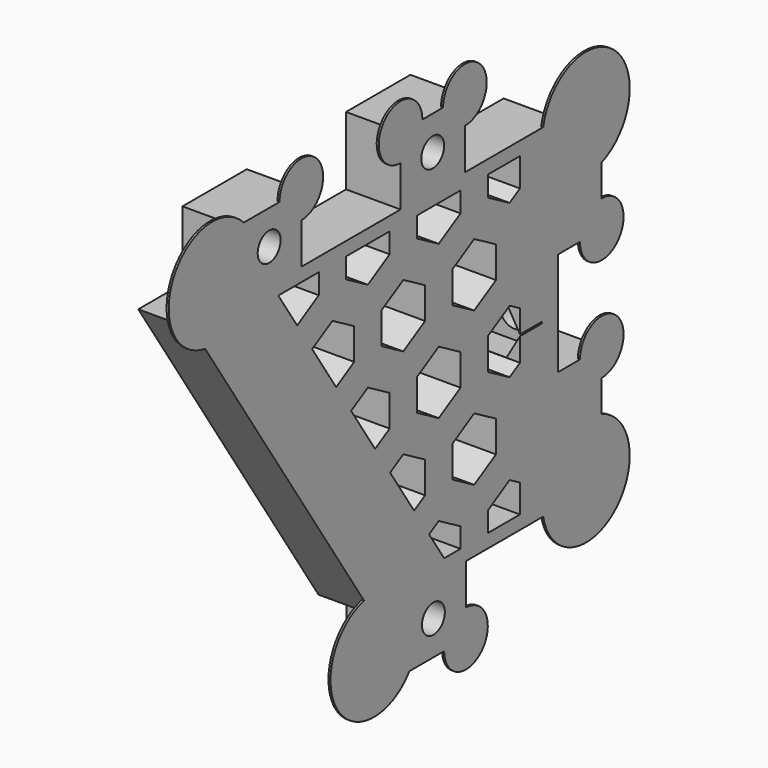
from build123d import *

# Parameters (mm, degrees)
HONEYCOMB_W      = 109
HONEYCOMB_H      = 99.592922
EXTRUDE002_DEPTH = 8
PAD002_DEPTH     = 8
PAD001_DEPTH     = 5.1
PAD_DEPTH        = 8
SKETCH001_W      = 8.1
SKETCH001_H      = 10
SKETCH001_W_2    = 18.2
SKETCH001_W_3    = 5.1
SKETCH001_W_4    = 8
SKETCH001_H_2    = 15.2
POCKET_DEPTH     = 8.001
SKETCH002_R      = 2.1
POCKET001_DEPTH  = 8.001
SKETCH004_R      = 2.1
POCKET002_DEPTH  = 7
SKETCH006_R      = 8
SKETCH006_R_2    = 4
PAD003_DEPTH     = 0.3


with BuildPart() as extrude002:
    # Honeycomb → Extrude002 (new body)
    with BuildSketch(Plane(origin=(0, 0, -0.165735), x_dir=(0, -1, 0), z_dir=(1, 0, 0))):
        with Locations((0, -0.165735)):
            Rectangle(HONEYCOMB_W, HONEYCOMB_H)
        Polygon((41.5, -37.26049), (45.5, -34.951089), (49.5, -37.26049), (49.5, -41.879292), (45.5, -44.188693), (41.5, -41.879292), align=None, mode=Mode.SUBTRACT)
        Polygon((28.5, -37.26049), (32.5, -34.951089), (36.5, -37.26049), (36.5, -41.879292), (32.5, -44.188693), (28.5, -41.879292), align=None, mode=Mode.SUBTRACT)
        Polygon((15.5, -37.26049), (19.5, -34.951089), (23.5, -37.26049), (23.5, -41.879292), (19.5, -44.188693), (15.5, -41.879292), align=None, mode=Mode.SUBTRACT)
        Polygon((2.5, -37.26049), (6.5, -34.951089), (10.5, -37.26049), (10.5, -41.879292), (6.5, -44.188693), (2.5, -41.879292), align=None, mode=Mode.SUBTRACT)
        Polygon((-10.5, -37.26049), (-6.5, -34.951089), (-2.5, -37.26049), (-2.5, -41.879292), (-6.5, -44.188693), (-10.5, -41.879292), align=None, mode=Mode.SUBTRACT)
        Polygon((-23.5, -37.26049), (-19.5, -34.951089), (-15.5, -37.26049), (-15.5, -41.879292), (-19.5, -44.188693), (-23.5, -41.879292), align=None, mode=Mode.SUBTRACT)
        Polygon((-36.5, -37.26049), (-32.5, -34.951089), (-28.5, -37.26049), (-28.5, -41.879292), (-32.5, -44.188693), (-36.5, -41.879292), align=None, mode=Mode.SUBTRACT)
        Polygon((-49.5, -37.26049), (-45.5, -34.951089), (-41.5, -37.26049), (-41.5, -41.879292), (-45.5, -44.188693), (-49.5, -41.879292), align=None, mode=Mode.SUBTRACT)
        Polygon((35, -26.00216), (39, -23.692759), (43, -26.00216), (43, -30.620962), (39, -32.930363), (35, -30.620962), align=None, mode=Mode.SUBTRACT)
        Polygon((22, -26.00216), (26, -23.692759), (30, -26.00216), (30, -30.620962), (26, -32.930363), (22, -30.620962), align=None, mode=Mode.SUBTRACT)
        Polygon((9, -26.00216), (13, -23.692759), (17, -26.00216), (17, -30.620962), (13, -32.930363), (9, -30.620962), align=None, mode=Mode.SUBTRACT)
        Polygon((-4, -26.00216), (0, -23.692759), (4, -26.00216), (4, -30.620962), (0, -32.930363), (-4, -30.620962), align=None, mode=Mode.SUBTRACT)
        Polygon((-17, -26.00216), (-13, -23.692759), (-9, -26.00216), (-9, -30.620962), (-13, -32.930363), (-17, -30.620962), align=None, mode=Mode.SUBTRACT)
        Polygon((-30, -26.00216), (-26, -23.692759), (-22, -26.00216), (-22, -30.620962), (-26, -32.930363), (-30, -30.620962), align=None, mode=Mode.SUBTRACT)
        Polygon((-43, -26.00216), (-39, -23.692759), (-35, -26.00216), (-35, -30.620962), (-39, -32.930363), (-43, -30.620962), align=None, mode=Mode.SUBTRACT)
        Polygon((41.5, -14.743829), (45.5, -12.434428), (49.5, -14.743829), (49.5, -19.362632), (45.5, -21.672033), (41.5, -19.362632), align=None, mode=Mode.SUBTRACT)
        Polygon((28.5, -14.743829), (32.5, -12.434428), (36.5, -14.743829), (36.5, -19.362632), (32.5, -21.672033), (28.5, -19.362632), align=None, mode=Mode.SUBTRACT)
        Polygon((15.5, -14.743829), (19.5, -12.434428), (23.5, -14.743829), (23.5, -19.362632), (19.5, -21.672033), (15.5, -19.362632), align=None, mode=Mode.SUBTRACT)
        Polygon((2.5, -14.743829), (6.5, -12.434428), (10.5, -14.743829), (10.5, -19.362632), (6.5, -21.672033), (2.5, -19.362632), align=None, mode=Mode.SUBTRACT)
        Polygon((-10.5, -14.743829), (-6.5, -12.434428), (-2.5, -14.743829), (-2.5, -19.362632), (-6.5, -21.672033), (-10.5, -19.362632), align=None, mode=Mode.SUBTRACT)
        Polygon((-23.5, -14.743829), (-19.5, -12.434428), (-15.5, -14.743829), (-15.5, -19.362632), (-19.5, -21.672033), (-23.5, -19.362632), align=None, mode=Mode.SUBTRACT)
        Polygon((-36.5, -14.743829), (-32.5, -12.434428), (-28.5, -14.743829), (-28.5, -19.362632), (-32.5, -21.672033), (-36.5, -19.362632), align=None, mode=Mode.SUBTRACT)
        Polygon((-49.5, -14.743829), (-45.5, -12.434428), (-41.5, -14.743829), (-41.5, -19.362632), (-45.5, -21.672033), (-49.5, -19.362632), align=None, mode=Mode.SUBTRACT)
        Polygon((35, -3.485499), (39, -1.176098), (43, -3.485499), (43, -8.104301), (39, -10.413702), (35, -8.104301), align=None, mode=Mode.SUBTRACT)
        Polygon((22, -3.485499), (26, -1.176098), (30, -3.485499), (30, -8.104301), (26, -10.413702), (22, -8.104301), align=None, mode=Mode.SUBTRACT)
        Polygon((9, -3.485499), (13, -1.176098), (17, -3.485499), (17, -8.104301), (13, -10.413702), (9, -8.104301), align=None, mode=Mode.SUBTRACT)
        Polygon((-4, -3.485499), (0, -1.176098), (4, -3.485499), (4, -8.104301), (0, -10.413702), (-4, -8.104301), align=None, mode=Mode.SUBTRACT)
        Polygon((-17, -3.485499), (-13, -1.176098), (-9, -3.485499), (-9, -8.104301), (-13, -10.413702), (-17, -8.104301), align=None, mode=Mode.SUBTRACT)
        Polygon((-30, -3.485499), (-26, -1.176098), (-22, -3.485499), (-22, -8.104301), (-26, -10.413702), (-30, -8.104301), align=None, mode=Mode.SUBTRACT)
        Polygon((-43, -3.485499), (-39, -1.176098), (-35, -3.485499), (-35, -8.104301), (-39, -10.413702), (-43, -8.104301), align=None, mode=Mode.SUBTRACT)
        Polygon((41.5, 7.772831), (45.5, 10.082232), (49.5, 7.772831), (49.5, 3.154029), (45.5, 0.844628), (41.5, 3.154029), align=None, mode=Mode.SUBTRACT)
        Polygon((28.5, 7.772831), (32.5, 10.082232), (36.5, 7.772831), (36.5, 3.154029), (32.5, 0.844628), (28.5, 3.154029), align=None, mode=Mode.SUBTRACT)
        Polygon((15.5, 7.772831), (19.5, 10.082232), (23.5, 7.772831), (23.5, 3.154029), (19.5, 0.844628), (15.5, 3.154029), align=None, mode=Mode.SUBTRACT)
        Polygon((2.5, 7.772831), (6.5, 10.082232), (10.5, 7.772831), (10.5, 3.154029), (6.5, 0.844628), (2.5, 3.154029), align=None, mode=Mode.SUBTRACT)
        Polygon((-10.5, 7.772831), (-6.5, 10.082232), (-2.5, 7.772831), (-2.5, 3.154029), (-6.5, 0.844628), (-10.5, 3.154029), align=None, mode=Mode.SUBTRACT)
        Polygon((-23.5, 7.772831), (-19.5, 10.082232), (-15.5, 7.772831), (-15.5, 3.154029), (-19.5, 0.844628), (-23.5, 3.154029), align=None, mode=Mode.SUBTRACT)
        Polygon((-36.5, 7.772831), (-32.5, 10.082232), (-28.5, 7.772831), (-28.5, 3.154029), (-32.5, 0.844628), (-36.5, 3.154029), align=None, mode=Mode.SUBTRACT)
        Polygon((-49.5, 7.772831), (-45.5, 10.082232), (-41.5, 7.772831), (-41.5, 3.154029), (-45.5, 0.844628), (-49.5, 3.154029), align=None, mode=Mode.SUBTRACT)
        Polygon((35, 19.031161), (39, 21.340562), (43, 19.031161), (43, 14.412359), (39, 12.102958), (35, 14.412359), align=None, mode=Mode.SUBTRACT)
        Polygon((22, 19.031161), (26, 21.340562), (30, 19.031161), (30, 14.412359), (26, 12.102958), (22, 14.412359), align=None, mode=Mode.SUBTRACT)
        Polygon((9, 19.031161), (13, 21.340562), (17, 19.031161), (17, 14.412359), (13, 12.102958), (9, 14.412359), align=None, mode=Mode.SUBTRACT)
        Polygon((-4, 19.031161), (0, 21.340562), (4, 19.031161), (4, 14.412359), (0, 12.102958), (-4, 14.412359), align=None, mode=Mode.SUBTRACT)
        Polygon((-17, 19.031161), (-13, 21.340562), (-9, 19.031161), (-9, 14.412359), (-13, 12.102958), (-17, 14.412359), align=None, mode=Mode.SUBTRACT)
        Polygon((-30, 19.031161), (-26, 21.340562), (-22, 19.031161), (-22, 14.412359), (-26, 12.102958), (-30, 14.412359), align=None, mode=Mode.SUBTRACT)
        Polygon((-43, 19.031161), (-39, 21.340562), (-35, 19.031161), (-35, 14.412359), (-39, 12.102958), (-43, 14.412359), align=None, mode=Mode.SUBTRACT)
        Polygon((41.5, 30.289492), (45.5, 32.598893), (49.5, 30.289492), (49.5, 25.670689), (45.5, 23.361288), (41.5, 25.670689), align=None, mode=Mode.SUBTRACT)
        Polygon((28.5, 30.289492), (32.5, 32.598893), (36.5, 30.289492), (36.5, 25.670689), (32.5, 23.361288), (28.5, 25.670689), align=None, mode=Mode.SUBTRACT)
        Polygon((15.5, 30.289492), (19.5, 32.598893), (23.5, 30.289492), (23.5, 25.670689), (19.5, 23.361288), (15.5, 25.670689), align=None, mode=Mode.SUBTRACT)
        Polygon((2.5, 30.289492), (6.5, 32.598893), (10.5, 30.289492), (10.5, 25.670689), (6.5, 23.361288), (2.5, 25.670689), align=None, mode=Mode.SUBTRACT)
        Polygon((-10.5, 30.289492), (-6.5, 32.598893), (-2.5, 30.289492), (-2.5, 25.670689), (-6.5, 23.361288), (-10.5, 25.670689), align=None, mode=Mode.SUBTRACT)
        Polygon((-23.5, 30.289492), (-19.5, 32.598893), (-15.5, 30.289492), (-15.5, 25.670689), (-19.5, 23.361288), (-23.5, 25.670689), align=None, mode=Mode.SUBTRACT)
        Polygon((-36.5, 30.289492), (-32.5, 32.598893), (-28.5, 30.289492), (-28.5, 25.670689), (-32.5, 23.361288), (-36.5, 25.670689), align=None, mode=Mode.SUBTRACT)
        Polygon((-49.5, 30.289492), (-45.5, 32.598893), (-41.5, 30.289492), (-41.5, 25.670689), (-45.5, 23.361288), (-49.5, 25.670689), align=None, mode=Mode.SUBTRACT)
        Polygon((35, 41.547822), (39, 43.857223), (43, 41.547822), (43, 36.92902), (39, 34.619619), (35, 36.92902), align=None, mode=Mode.SUBTRACT)
        Polygon((22, 41.547822), (26, 43.857223), (30, 41.547822), (30, 36.92902), (26, 34.619619), (22, 36.92902), align=None, mode=Mode.SUBTRACT)
        Polygon((9, 41.547822), (13, 43.857223), (17, 41.547822), (17, 36.92902), (13, 34.619619), (9, 36.92902), align=None, mode=Mode.SUBTRACT)
        Polygon((-4, 41.547822), (0, 43.857223), (4, 41.547822), (4, 36.92902), (0, 34.619619), (-4, 36.92902), align=None, mode=Mode.SUBTRACT)
        Polygon((-17, 41.547822), (-13, 43.857223), (-9, 41.547822), (-9, 36.92902), (-13, 34.619619), (-17, 36.92902), align=None, mode=Mode.SUBTRACT)
        Polygon((-30, 41.547822), (-26, 43.857223), (-22, 41.547822), (-22, 36.92902), (-26, 34.619619), (-30, 36.92902), align=None, mode=Mode.SUBTRACT)
        Polygon((-43, 41.547822), (-39, 43.857223), (-35, 41.547822), (-35, 36.92902), (-39, 34.619619), (-43, 36.92902), align=None, mode=Mode.SUBTRACT)
    extrude(amount=EXTRUDE002_DEPTH)


with BuildPart() as extrude002_1:
    # Extrude002 placement: moved
    add(extrude002.part.moved(Location((0, 1.1, 5.6))))


with BuildPart() as common:
    # Sketch005 → Pad002 (new body)
    with BuildSketch(Plane.YZ):
        Polygon((22.5, 23.15), (22.5, -23.15), (8.5944, -23.15), (-21.8273, 23.15), align=None)
    extrude(amount=PAD002_DEPTH)

    # Common: intersect Extrude002
    add(extrude002_1.part, mode=Mode.INTERSECT)


with BuildPart() as pad001:
    # Sketch003 → Pad001 (new body)
    with BuildSketch(Plane.XZ.offset(-26.5)):
        Polygon((1.96484, -3.525), (6.03516, -3.525), (8.070319, 0), (6.03516, 3.525), (0, 3.525), (0, -3.525), align=None)
    extrude(amount=PAD001_DEPTH)


with BuildPart() as obj1:
    # Sketch → Pad (new body)
    with BuildSketch(Plane.YZ):
        Polygon((-37.5, 35.15), (37.5, 35.15), (37.5, -35.15), (-4.45, -35.15), (-4.45, -25.15), (-37.5, 25.15), align=None)
        Polygon((-21.827321, 23.15), (22.5, 23.15), (22.5, -23.15), (8.594449, -23.15), align=None, mode=Mode.SUBTRACT)
    extrude(amount=PAD_DEPTH)

    # Sketch001 → Pocket (cut, through all)
    with BuildSketch(Plane.YZ.offset(8)):
        with Locations((-33.45, 30.15)):
            Rectangle(SKETCH001_W, SKETCH001_H)
        with Locations((-8.5, 30.15)):
            Rectangle(SKETCH001_W_2, SKETCH001_H)
        Polygon((37.5, 35.15), (12.4, 35.15), (12.4, 25.15), (29.5, 25.15), (29.5, 19.45), (37.5, 19.45), align=None)
        with Locations((-1.9, -30.15)):
            Rectangle(SKETCH001_W_3, SKETCH001_H)
        Polygon((12.6, -35.15), (37.5, -35.15), (37.5, -25.15), (37.5, -19.4), (29.5, -19.4), (29.5, -25.15), (12.6, -25.15), align=None)
        with Locations((33.5, 0)):
            Rectangle(SKETCH001_W_4, SKETCH001_H_2)
    extrude(amount=-POCKET_DEPTH, mode=Mode.SUBTRACT)

    # Sketch002 → Pocket001 (cut, through all)
    with BuildSketch(Plane.YZ.offset(8)):
        with Locations((-23.5, 30.15)):
            Circle(SKETCH002_R)
        with Locations((6.5, 30.15)):
            Circle(SKETCH002_R)
        with Locations((6.625, -30.15)):
            Circle(SKETCH002_R)
    extrude(amount=-POCKET001_DEPTH, mode=Mode.SUBTRACT)

    # Cut: cut Pad001
    add(pad001.part, mode=Mode.SUBTRACT)

    # Sketch004 → Pocket002 (cut)
    with BuildSketch(Plane(origin=(0, 29.5, 0), x_dir=(-1, 0, 0), z_dir=(0, 1, 0))):
        with Locations((-4, 0)):
            Circle(SKETCH004_R)
    extrude(amount=-POCKET002_DEPTH, mode=Mode.SUBTRACT)

    # Fusion: union Common
    add(common.part)

    # Sketch006 → Pad003 (new body)
    with BuildSketch(Plane.YZ.offset(8)):
        with Locations((34.628638, 23.70913)):
            Circle(SKETCH006_R)
        with Locations((34.628638, -23.70913)):
            Circle(SKETCH006_R)
        with Locations((-33.930172, 29.614136)):
            Circle(SKETCH006_R)
        with Locations((-4.250326, -30.439821)):
            Circle(SKETCH006_R)
        with Locations((-17.6, 35.15)):
            Circle(SKETCH006_R_2)
        with Locations((0.6, 35.15)):
            Circle(SKETCH006_R_2)
        with Locations((12.4, 35.15)):
            Circle(SKETCH006_R_2)
        with Locations((12.6, -35.15)):
            Circle(SKETCH006_R_2)
        with Locations((37.5, 7.6)):
            Circle(SKETCH006_R_2)
        with Locations((37.5, -7.6)):
            Circle(SKETCH006_R_2)
    extrude(amount=-PAD003_DEPTH)


solid = obj1.part
